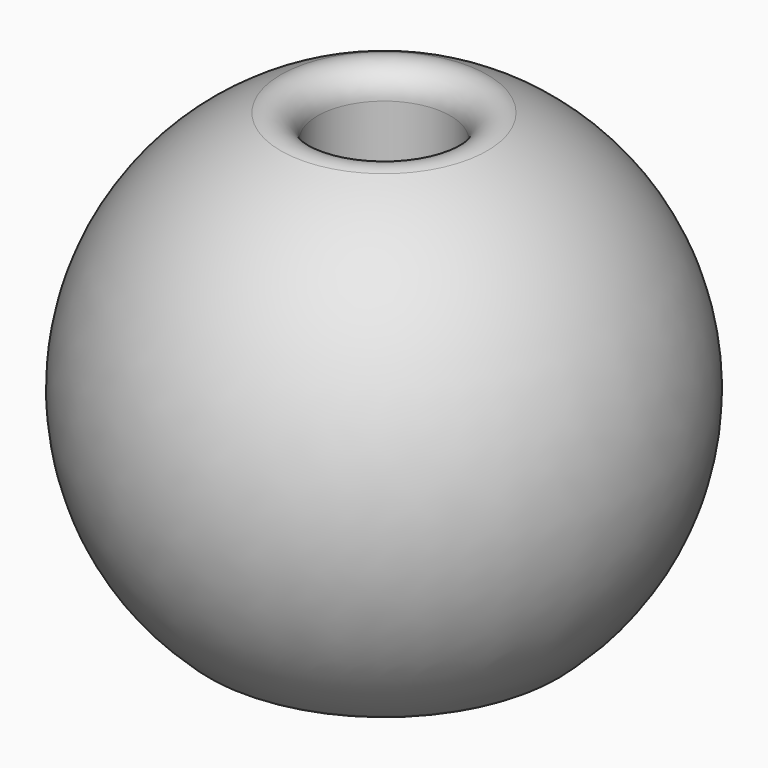
from build123d import *


with BuildPart() as f2:
    # F0 (on Front) → F2 (revolve)
    with BuildSketch(Plane.XZ):
        with BuildLine():
            ThreePointArc((-6.356794, 21.04043), (-7.495148, 23.158681), (-9.889856, 23.378255))
            ThreePointArc((-9.889856, 23.378255), (-25.018333, 4.147494), (-16.892571, -18.932042))
            ThreePointArc((-16.892571, -18.932042), (-14.162287, -19.35753), (-12.659237, -17.038838))
            Line((-12.659237, -17.038838), (-12.659237, 0))
            Line((-12.659237, 0), (-7.626794, 0))
            ThreePointArc((-7.626794, 0), (-6.728768, 0.371974), (-6.356794, 1.27))
            Line((-6.356794, 1.27), (-6.356794, 21.04043))
        make_face()
    revolve(axis=Axis((0.040763, 0, 0), (0, 0, -1)))


solid = f2.part
